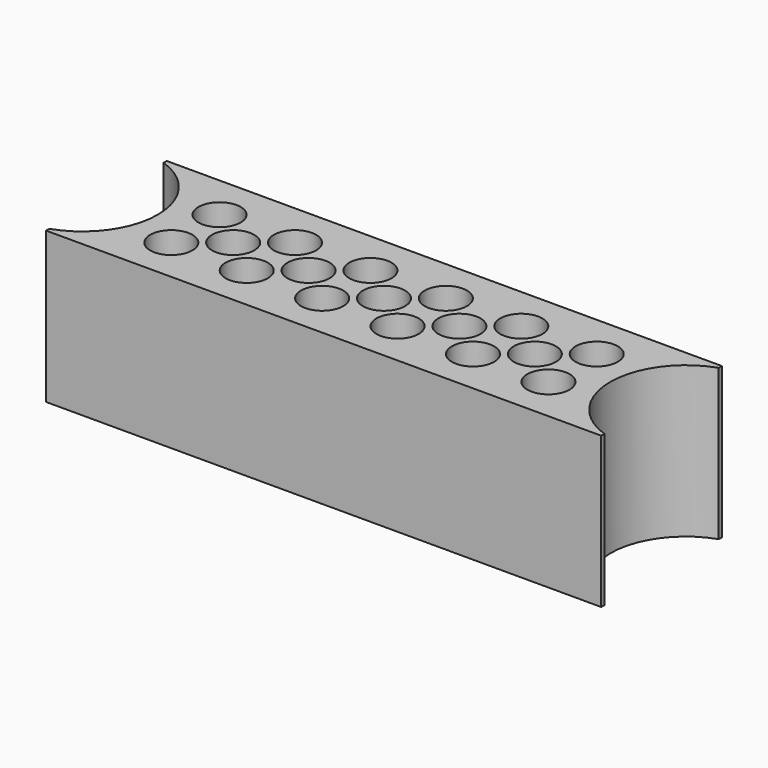
from build123d import *

# Parameters (mm, degrees)
F0_R     = 3.5
F1_DEPTH = 25


with BuildPart() as f1:
    # F0 (on Top) → F1 (new body)
    with BuildSketch(Plane.XY):
        with BuildLine():
            Line((46, 11.842719), (46, 12.5))
            Line((46, 12.5), (-46, 12.5))
            Line((-46, 12.5), (-46, 11.842719))
            ThreePointArc((-46, 11.842719), (-39.844952, 7.28869), (-37.5, 0))
            ThreePointArc((-37.5, 0), (-39.844952, -7.28869), (-46, -11.842719))
            Line((-46, -11.842719), (-46, -12.5))
            Line((-46, -12.5), (46, -12.5))
            Line((46, -12.5), (46, -11.842719))
            ThreePointArc((46, -11.842719), (37.5, 0), (46, 11.842719))
        make_face()
        with Locations((-31.25, -5)):
            Circle(F0_R, mode=Mode.SUBTRACT)
        with Locations((-18.75, -5)):
            Circle(F0_R, mode=Mode.SUBTRACT)
        with Locations((-6.25, -5)):
            Circle(F0_R, mode=Mode.SUBTRACT)
        with Locations((6.25, -5)):
            Circle(F0_R, mode=Mode.SUBTRACT)
        with Locations((18.75, -5)):
            Circle(F0_R, mode=Mode.SUBTRACT)
        with Locations((31.25, -5)):
            Circle(F0_R, mode=Mode.SUBTRACT)
        with Locations((-25, 0)):
            Circle(F0_R, mode=Mode.SUBTRACT)
        with Locations((-12.5, 0)):
            Circle(F0_R, mode=Mode.SUBTRACT)
        with Locations((-31.25, 5)):
            Circle(F0_R, mode=Mode.SUBTRACT)
        with Locations((-18.75, 5)):
            Circle(F0_R, mode=Mode.SUBTRACT)
        with Locations((-6.25, 5)):
            Circle(F0_R, mode=Mode.SUBTRACT)
        Circle(F0_R, mode=Mode.SUBTRACT)
        with Locations((12.5, 0)):
            Circle(F0_R, mode=Mode.SUBTRACT)
        with Locations((25, 0)):
            Circle(F0_R, mode=Mode.SUBTRACT)
        with Locations((6.25, 5)):
            Circle(F0_R, mode=Mode.SUBTRACT)
        with Locations((18.75, 5)):
            Circle(F0_R, mode=Mode.SUBTRACT)
        with Locations((31.25, 5)):
            Circle(F0_R, mode=Mode.SUBTRACT)
    extrude(amount=F1_DEPTH)


solid = f1.part
